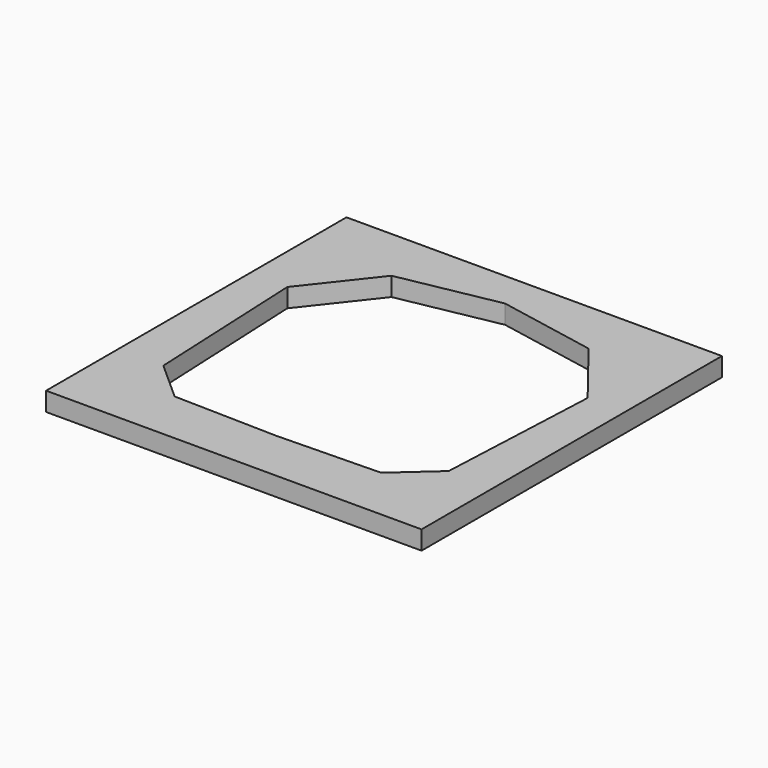
from build123d import *

# Parameters (mm, degrees)
F1_DEPTH = 2


with BuildPart() as f1:
    # F0 (on Top) → F1 (new body)
    with BuildSketch(Plane.XY):
        Polygon((-20, -5.618077), (0, -5.618077), (20, -5.618077), (20, 34.381923), (0, 34.381923), (-20, 34.381923), align=None)
        Polygon((-10.5, 28.5), (0, 30.5), (10.5, 28.5), (16, 21.5), (15.2, 4), (11, 0.25), (0, 0), (-11, 0.25), (-15.2, 4), (-16, 21.5), align=None, mode=Mode.SUBTRACT)
    extrude(amount=F1_DEPTH)


solid = f1.part
